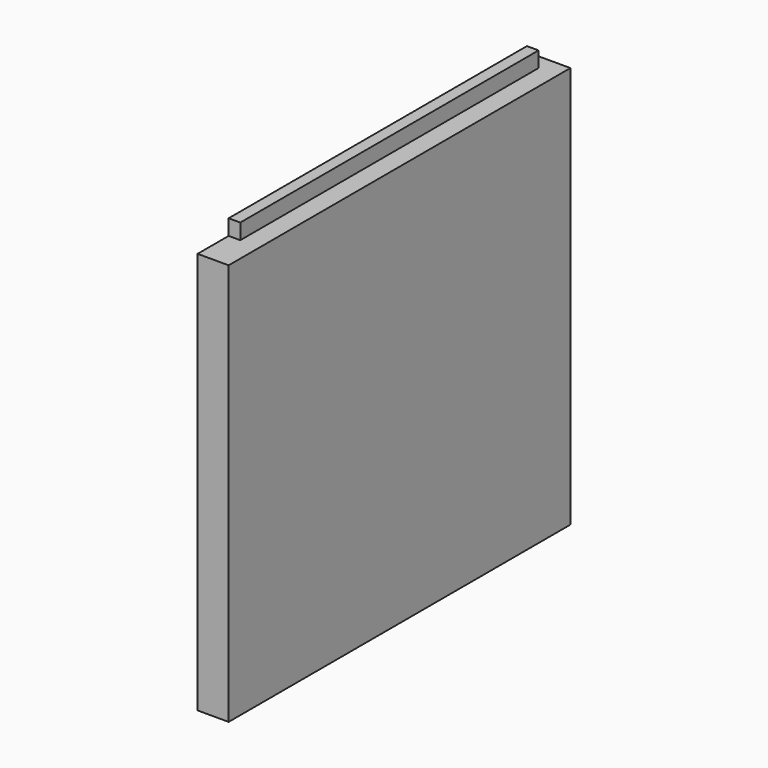
from build123d import *

# Parameters (mm, degrees)
F0_W     = 349.25
F0_H     = 328.6125
F1_DEPTH = 12.7
F2_W     = 9.525
F2_H     = 304.8
F3_DEPTH = 12.7
F4_W     = 9.525
F4_H     = 304.8
F5_DEPTH = 12.7


with BuildPart() as f1:
    # F0 (on Right) → F1 (new body, symmetric)
    with BuildSketch(Plane.YZ):
        Rectangle(F0_W, F0_H)
    extrude(amount=F1_DEPTH, both=True)

    # F2 (on face) → F3 (join)
    with BuildSketch(Plane.XY.offset(164.30625)):
        with Locations((-7.9375, 9.525)):
            Rectangle(F2_W, F2_H)
    extrude(amount=F3_DEPTH)

    # F4 (on face) → F5 (join)
    with BuildSketch(Plane(origin=(0, 0, -164.30625), x_dir=(1, 0, 0), z_dir=(0, 0, -1))):
        with Locations((-7.9375, -9.525)):
            Rectangle(F4_W, F4_H)
    extrude(amount=F5_DEPTH)


solid = f1.part
